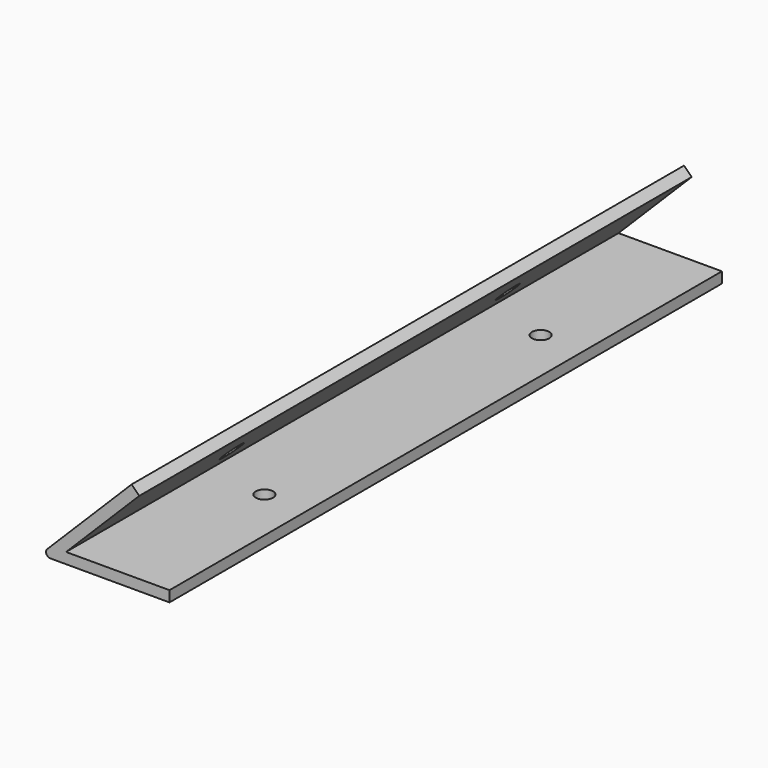
from build123d import *

# Parameters (mm, degrees)
F1_DEPTH = 203.2
F2_R     = 3.3782
F3_DEPTH = 3.175
F4_R     = 2.5527
F5_DEPTH = 3.175
F6_R     = 1.259666


with BuildPart() as f1:
    # F0 (on Front) → F1 (new body)
    with BuildSketch(Plane.XZ):
        Polygon((30.434872, 0), (0, 0), (21.520704, 21.520704), (19.27564, 23.765768), (-7.665128, -3.175), (30.434872, -3.175), align=None)
    extrude(amount=F1_DEPTH)

    # F2 (on face) → F3 (cut, through all)
    with BuildSketch(Plane(origin=(-2.245064, 0, 2.245064), x_dir=(0, -1, 0), z_dir=(-0.707107, 0, 0.707107))):
        with Locations((50.8, 11.384872)):
            Circle(F2_R)
        with Locations((152.4, 11.384872)):
            Circle(F2_R)
    extrude(amount=-F3_DEPTH, mode=Mode.SUBTRACT)

    # F4 (on face) → F5 (cut, through all)
    with BuildSketch(Plane(origin=(0, 0, -3.175), x_dir=(1, 0, 0), z_dir=(0, 0, -1))):
        with Locations((17.734872, 152.4)):
            Circle(F4_R)
        with Locations((17.734872, 50.8)):
            Circle(F4_R)
    extrude(amount=-F5_DEPTH, mode=Mode.SUBTRACT)

    # F6
    f6_edges = [f1.edges().sort_by_distance(p)[0] for p in [
        (-7.665128, -101.6, -3.175),
    ]]
    fillet(f6_edges, radius=F6_R)


solid = f1.part
